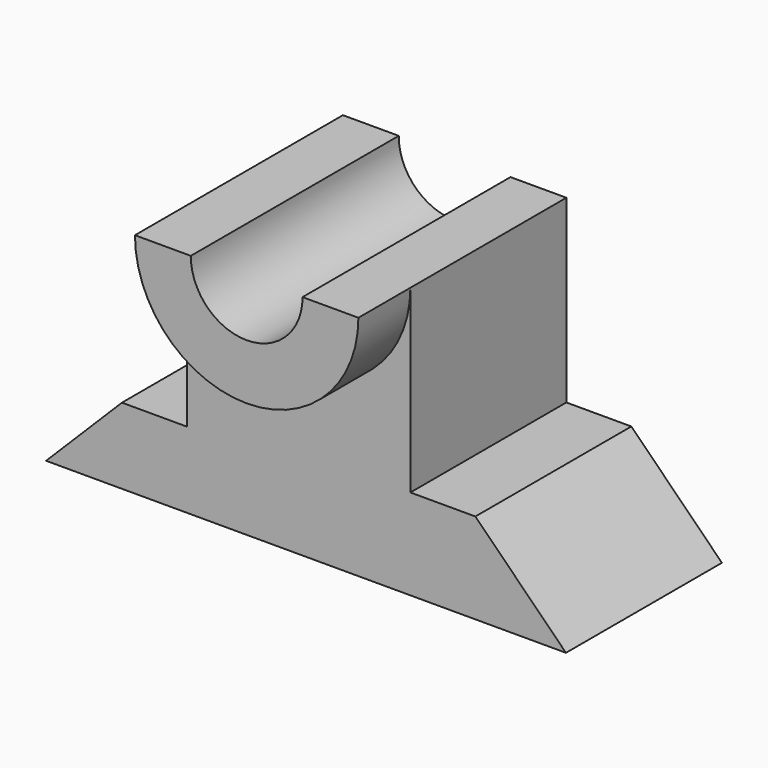
from build123d import *

# Parameters (mm, degrees)
F1_DEPTH = 30
F3_DEPTH = 10
F5_DEPTH = 40


with BuildPart() as f1:
    # F0 (on Front) → F1 (new body)
    with BuildSketch(Plane.XZ):
        Polygon((-31.843803, -24.386245), (-43.517503, -36.059944), (36.482497, -36.059944), (22.543686, -22.121133), (12.543686, -22.121133), (12.543686, 5.613755), (-21.843803, 5.613755), (-21.843803, -24.386245), align=None)
    extrude(amount=F1_DEPTH)

    # F2 (on face) → F3 (join)
    with BuildSketch(Plane.XZ.offset(30)):
        with BuildLine():
            Line((12.543686, 5.613755), (-21.843803, 5.613755))
            ThreePointArc((-21.843803, 5.613755), (-4.650059, -11.579989), (12.543686, 5.613755))
        make_face()
    extrude(amount=F3_DEPTH)

    # F4 (on face) → F5 (cut)
    with BuildSketch(Plane.XZ.offset(40)):
        with BuildLine():
            Line((-4.650059, 5.613755), (-13.246931, 5.613755))
            ThreePointArc((-13.246931, 5.613755), (-4.650059, -3.024393), (3.946813, 5.613755))
            Line((3.946813, 5.613755), (-4.650059, 5.613755))
        make_face()
    extrude(amount=-F5_DEPTH, mode=Mode.SUBTRACT)


solid = f1.part
